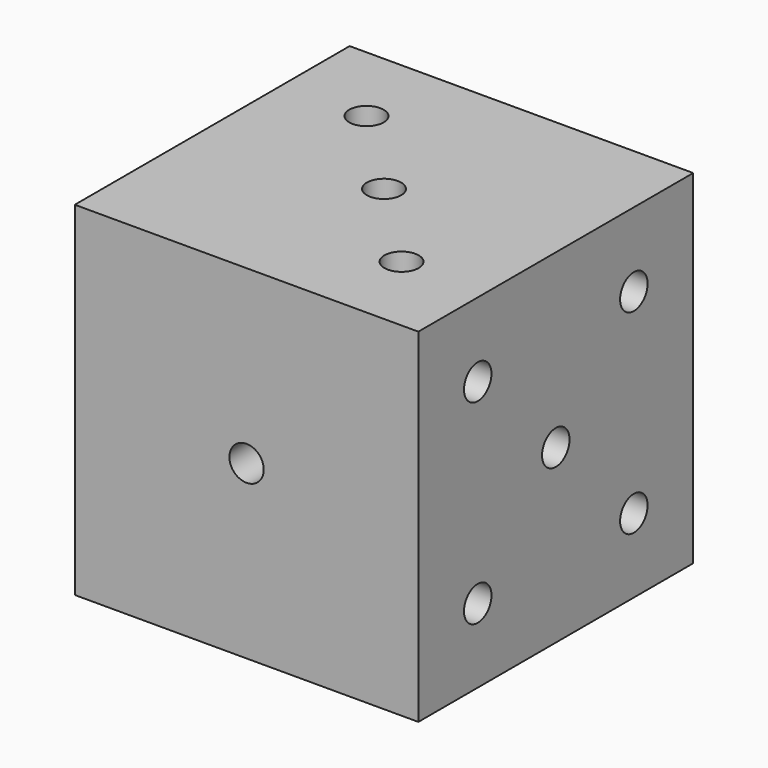
from build123d import *

# Parameters (mm, degrees)
F0_W     = 20
F0_H     = 20
F1_DEPTH = 20
F3_D     = 2
F5_D     = 2
F7_D     = 2


with BuildPart() as f1:
    # F0 (on Front) → F1 (new body)
    with BuildSketch(Plane.XZ):
        with Locations((10, 10)):
            Rectangle(F0_W, F0_H)
    extrude(amount=F1_DEPTH)

    # F3 (through all)
    with Locations(Plane.XZ.offset(20)):
        with Locations((10, 10)):
            Hole(F3_D / 2)

    # F5 (through all)
    with Locations(Plane.XY.offset(20)):
        with Locations((4.899733, -4.899733), (10, -10), (15.100267, -15.100267)):
            Hole(F5_D / 2)

    # F7 (through all)
    with Locations(Plane.YZ.offset(20)):
        with Locations((-10, 10), (-15.680383, 15.680383), (-15.680383, 4.319617), (-4.319617, 4.319617), (-4.319617, 15.680383)):
            Hole(F7_D / 2)


solid = f1.part
